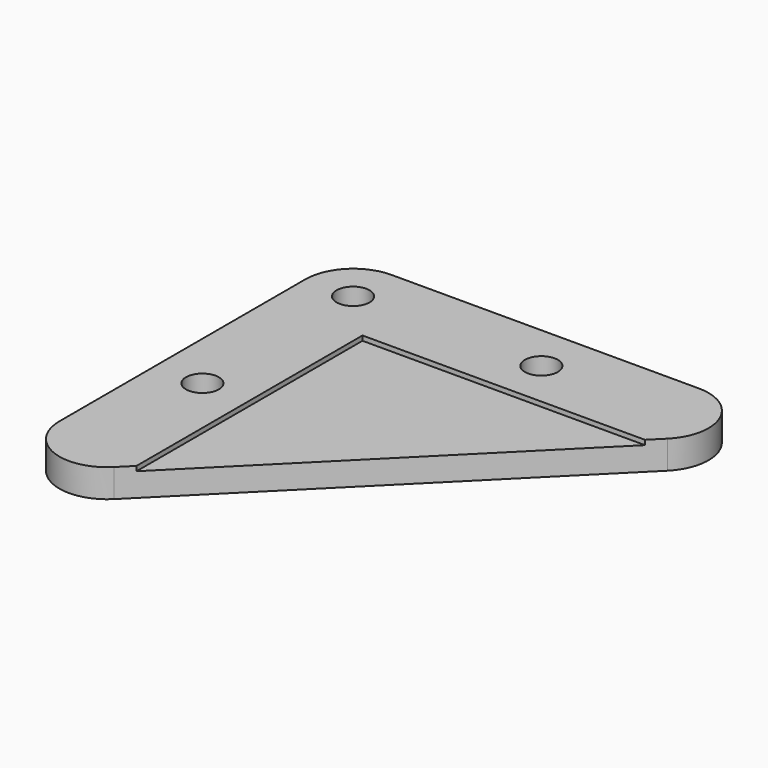
from build123d import *

# Parameters (mm, degrees)
F1_DEPTH = 3
F2_DEPTH = 2.5
F3_R     = 1.75
F4_DEPTH = 3.001
F5_R     = 3.5
F6_DEPTH = 1
F7_R     = 5.08


with BuildPart() as f1:
    # F0 (on Top) → F1 (new body)
    with BuildSketch(Plane.XY):
        Polygon((15, 15), (25, 25), (-25, 25), (-25, -25), (-15, -15), (-15, 15), align=None)
    extrude(amount=F1_DEPTH)

    # F0 (on Top) → F2 (join)
    with BuildSketch(Plane.XY):
        Polygon((-15, -15), (15, 15), (-15, 15), align=None)
    extrude(amount=F2_DEPTH)

    # F3 (on face) → F4 (cut, through all)
    with BuildSketch(Plane.XY.offset(3)):
        with Locations((-20, 20)):
            Circle(F3_R)
        with Locations((0, 20)):
            Circle(F3_R)
        with Locations((-20, 0)):
            Circle(F3_R)
    extrude(amount=-F4_DEPTH, mode=Mode.SUBTRACT)

    # F5 (on face) → F6 (cut)
    with BuildSketch(Plane.XY):
        with Locations((-20, 0)):
            Circle(F5_R)
        with Locations((-20, 20)):
            Circle(F5_R)
        with Locations((0, 20)):
            Circle(F5_R)
    extrude(amount=F6_DEPTH, mode=Mode.SUBTRACT)

    # F7
    f7_edges = [f1.edges().sort_by_distance(p)[0] for p in [
        (25, 25, 1.5),
        (-25, -25, 1.5),
        (-25, 25, 1.5),
    ]]
    fillet(f7_edges, radius=F7_R)


solid = f1.part
